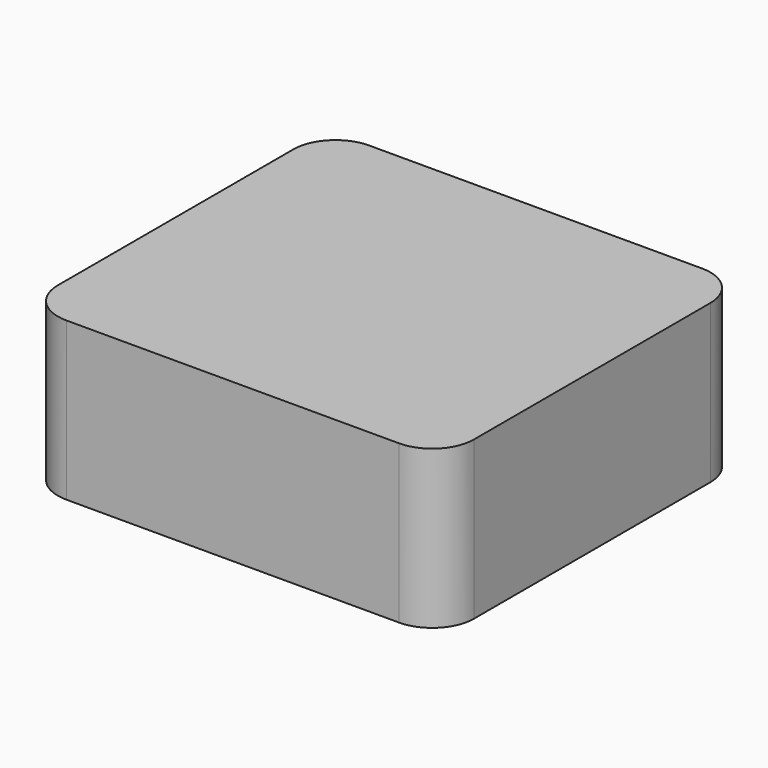
from build123d import *

# Parameters (mm, degrees)
EXTRUDE_DEPTH = 25
THICKNESS_T   = -2


with BuildPart() as part:
    # Sketch → Extrude (new body)
    with BuildSketch(Plane.XY):
        with BuildLine():
            Line((6.7, 0), (59.4, 0))
            ThreePointArc((59.4, 0), (64.066905, 1.933095), (66, 6.6))
            Line((66, 6.6), (66, 53.4))
            ThreePointArc((66, 53.4), (64.066905, 58.066905), (59.4, 60))
            Line((59.4, 60), (6.7, 60))
            ThreePointArc((6.7, 60), (1.962385, 58.037615), (0, 53.3))
            Line((0, 53.3), (0, 6.7))
            ThreePointArc((0, 6.7), (1.962385, 1.962385), (6.7, 0))
        make_face()
    extrude(amount=EXTRUDE_DEPTH)

    # Thickness
    thickness_openings = [part.faces().sort_by_distance(p)[0] for p in [
        (33.004479, 30, 0),
    ]]
    offset(amount=THICKNESS_T, openings=thickness_openings)


solid = part.part
